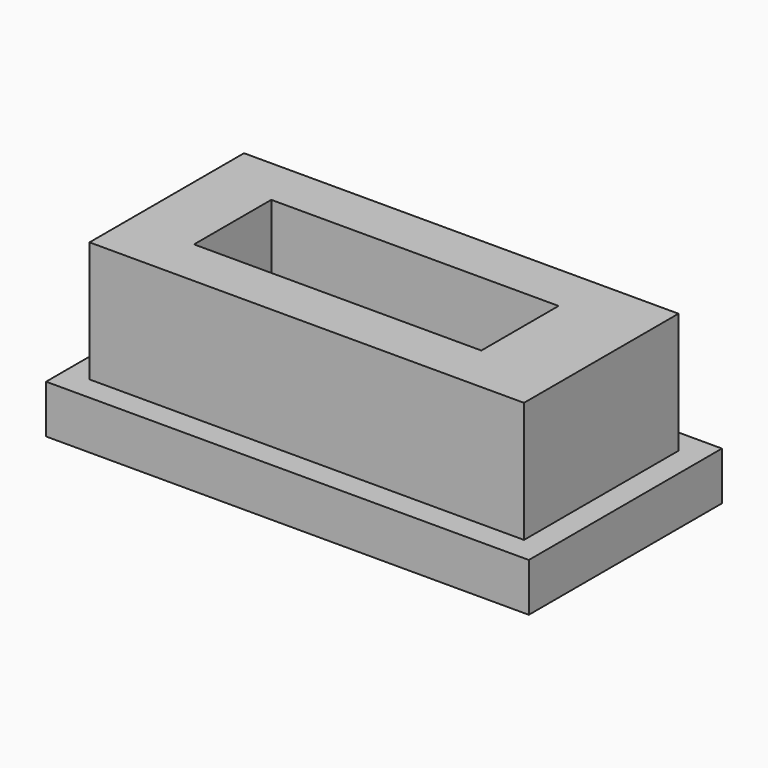
from build123d import *

# Parameters (mm, degrees)
F0_W     = 100
F0_H     = 50
F1_DEPTH = 10
F2_W     = 90
F2_H     = 40
F3_DEPTH = 5
F4_DEPTH = 25
F5_W     = 59.516436
F5_H     = 20
F6_DEPTH = 25


with BuildPart() as f1:
    # F0 (on Top) → F1 (new body)
    with BuildSketch(Plane.XY):
        with Locations((-0.379814, -32.520819)):
            Rectangle(F0_W, F0_H)
    extrude(amount=F1_DEPTH)

    # F2 (on face) → F3 (join)
    with BuildSketch(Plane.XY.offset(10)):
        with Locations((-0.379814, -32.520819)):
            Rectangle(F2_W, F2_H)
    extrude(amount=F3_DEPTH)

    # F2 (on face) → F4 (join)
    with BuildSketch(Plane.XY.offset(10)):
        with Locations((-0.379814, -32.520819)):
            Rectangle(F2_W, F2_H)
    extrude(amount=F4_DEPTH)

    # F5 (on face) → F6 (cut)
    with BuildSketch(Plane.XY.offset(35)):
        with Locations((-1.975571, -32.520819)):
            Rectangle(F5_W, F5_H)
    extrude(amount=-F6_DEPTH, mode=Mode.SUBTRACT)


solid = f1.part
